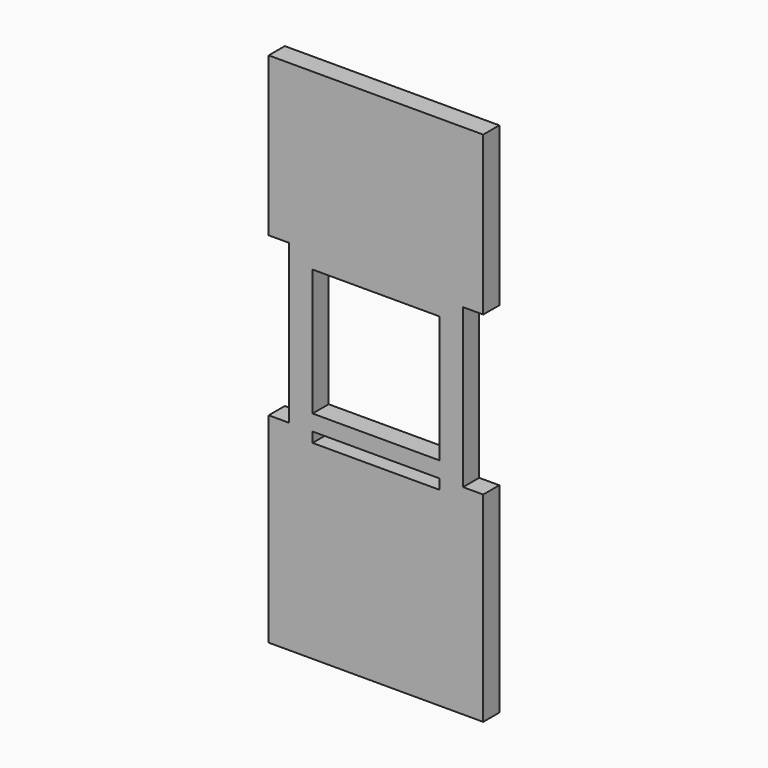
from build123d import *

# Parameters (mm, degrees)
F0_W     = 40
F0_H     = 3.175
F0_H_2   = 40
F1_DEPTH = 6.35


with BuildPart() as f1:
    # F0 (on Front) → F1 (new body)
    with BuildSketch(Plane.XZ):
        Polygon((33.85, 0), (-33.85, 0), (-33.85, -50), (-27.5, -50), (-27.5, -100), (-33.85, -100), (-33.85, -163.175), (33.85, -163.175), (33.85, -100), (27.5, -100), (27.5, -50), (33.85, -50), align=None)
        with Locations((0, -101.5875)):
            Rectangle(F0_W, F0_H, mode=Mode.SUBTRACT)
        with Locations((0, -75)):
            Rectangle(F0_W, F0_H_2, mode=Mode.SUBTRACT)
    extrude(amount=F1_DEPTH)


with BuildPart() as f2_1:
    # F2: copy of F1
    add(f1.part)


solid = Compound([f1.part, f2_1.part])
